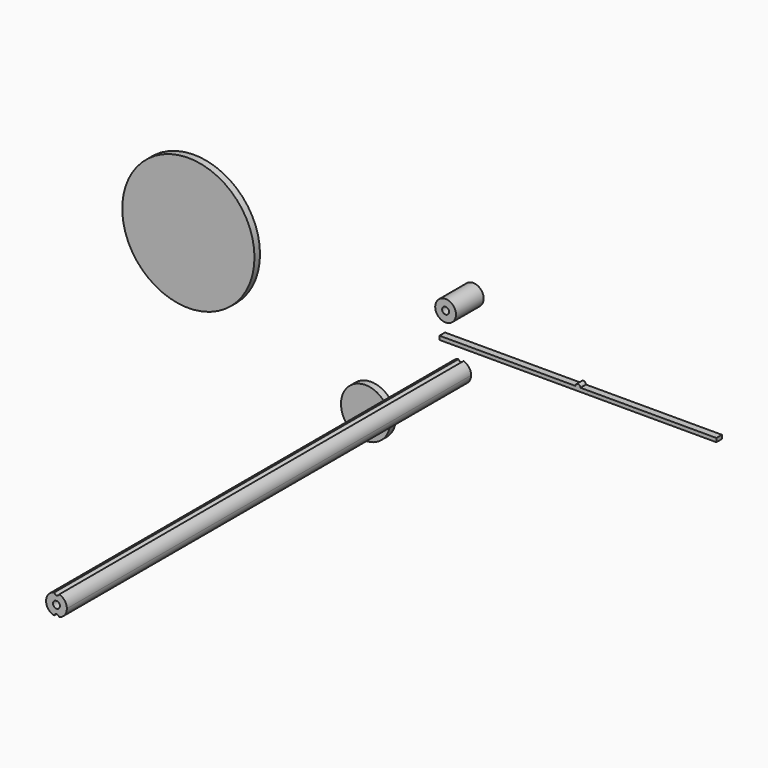
from build123d import *

# Parameters (mm, degrees)
F1_DEPTH = 365
F2_D     = 5
F0_R     = 7.5
F3_DEPTH = 25
F4_D     = 5
F5_DEPTH = 5
F0_R_2   = 17.75
F6_DEPTH = 5
F0_R_3   = 47.75


with BuildPart() as f1:
    # F0 (on Front) → F1 (new body)
    with BuildSketch(Plane.XZ):
        with BuildLine():
            ThreePointArc((-49.7219281873, 7.329294514), (-53.9696651294, 4.7072880038), (-55.630877614, 0))
            Line((-55.630877614, 0), (-48.130877614, 0))
            Line((-48.130877614, 0), (-48.130877614, 5.9503076512))
            ThreePointArc((-48.130877614, 5.9503076512), (-49.1398926819, 6.3934803612), (-49.7219281873, 7.329294514))
        make_face()
        with BuildLine():
            Line((-48.130877614, 5.9503076512), (-48.130877614, 0))
            Line((-48.130877614, 0), (-40.630877614, 0))
            ThreePointArc((-40.630877614, 0), (-42.1668750711, 4.5476008694), (-46.1457239254, 7.2325075066))
            ThreePointArc((-46.1457239254, 7.2325075066), (-46.9089704315, 6.2363490715), (-48.130877614, 5.9503076512))
        make_face()
        with BuildLine():
            Line((-40.630877614, 0), (-48.130877614, 0))
            Line((-48.130877614, 0), (-48.130877614, -5.9503076512))
            ThreePointArc((-48.130877614, -5.9503076512), (-46.9089704315, -6.2363490715), (-46.1457239254, -7.2325075066))
            ThreePointArc((-46.1457239254, -7.2325075066), (-42.1668750711, -4.5476008694), (-40.630877614, 0))
        make_face()
        with BuildLine():
            Line((-48.130877614, 0), (-55.630877614, 0))
            ThreePointArc((-55.630877614, 0), (-53.9696651294, -4.7072880038), (-49.7219281873, -7.329294514))
            ThreePointArc((-49.7219281873, -7.329294514), (-49.1398926819, -6.3934803612), (-48.130877614, -5.9503076512))
            Line((-48.130877614, -5.9503076512), (-48.130877614, 0))
        make_face()
    extrude(amount=F1_DEPTH)

    # F2 (through all)
    with Locations(Plane(origin=(0, 0, 0), x_dir=(1, 0, 0), z_dir=(0, 1, 0))):
        with Locations((-48.130877614, 0)):
            Hole(F2_D / 2)


with BuildPart() as f3:
    # F0 (on Front) → F3 (new body)
    with BuildSketch(Plane.XZ):
        with Locations((-39.0694960952, 51.7178885639)):
            Circle(F0_R)
    extrude(amount=F3_DEPTH)

    # F4 (through all)
    with Locations(Plane(origin=(0, 0, 0), x_dir=(1, 0, 0), z_dir=(0, 1, 0))):
        with Locations((-39.0694960952, -51.7178885639)):
            Hole(F4_D / 2)


with BuildPart() as f5:
    # F0 (on Front) → F5 (new body)
    with BuildSketch(Plane.XZ):
        with BuildLine():
            Line((140.511085093, 21.0598856211), (42.331085093, 21.0598856211))
            ThreePointArc((42.331085093, 21.0598856211), (40.511085093, 19.2398856211), (38.691085093, 21.0598856211))
            Line((38.691085093, 21.0598856211), (-59.488914907, 21.0598856211))
            Line((-59.488914907, 21.0598856211), (-59.488914907, 18.3438919485))
            Line((-59.488914907, 18.3438919485), (140.511085093, 18.3438919485))
            Line((140.511085093, 18.3438919485), (140.511085093, 21.0598856211))
        make_face()
        with BuildLine():
            Line((40.511085093, 21.0598856211), (42.331085093, 21.0598856211))
            ThreePointArc((42.331085093, 21.0598856211), (40.511085093, 22.8798856211), (38.691085093, 21.0598856211))
            Line((38.691085093, 21.0598856211), (40.511085093, 21.0598856211))
        make_face()
        with BuildLine():
            ThreePointArc((38.691085093, 21.0598856211), (40.511085093, 19.2398856211), (42.331085093, 21.0598856211))
            Line((42.331085093, 21.0598856211), (40.511085093, 21.0598856211))
            Line((40.511085093, 21.0598856211), (38.691085093, 21.0598856211))
        make_face()
    extrude(amount=F5_DEPTH)


with BuildPart() as f6:
    # F0 (on Front) → F6 (new body)
    with BuildSketch(Plane.XZ):
        with Locations((-112.8843203187, -45.4202629626)):
            Circle(F0_R_2)
    extrude(amount=F6_DEPTH)


with BuildPart() as f6b:
    # F0 (on Front) → F6, piece 2 (new body)
    with BuildSketch(Plane.XZ):
        with Locations((-240.8659905195, 27.3840799928)):
            Circle(F0_R_3)
    extrude(amount=F6_DEPTH)


solid = Compound([f1.part, f3.part, f5.part, f6.part, f6b.part])
